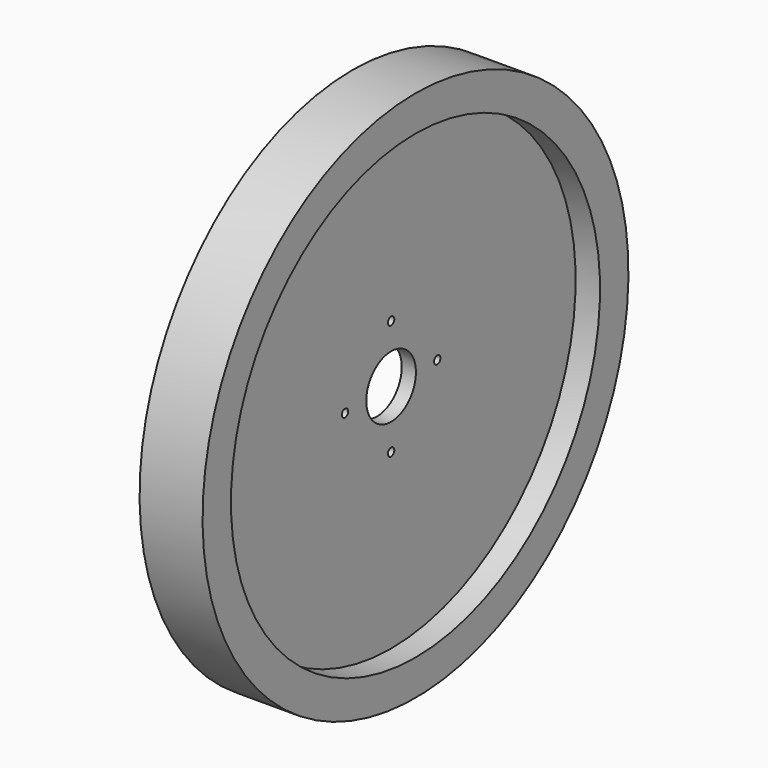
from build123d import *

# Parameters (mm, degrees)
F2_R     = 4.5
F3_DEPTH = 25


with BuildPart() as f1:
    # F0 (on Front) → F1 (revolve)
    with BuildSketch(Plane.XZ):
        Polygon((-8, 35), (0, 35), (8, 35), (8, 260), (35.5, 260), (35.5, 300), (0, 300), (-35.5, 300), (-35.5, 260), (-8, 260), align=None)
    revolve(axis=Axis((56.93949, 0, 0), (1, 0, 0)))

    # F2 (on face) → F3 (cut)
    with BuildSketch(Plane.YZ.offset(8)):
        with Locations((0, 65)):
            Circle(F2_R)
        with Locations((-65, 0)):
            Circle(F2_R)
        with Locations((0, -65)):
            Circle(F2_R)
        with Locations((65, 0)):
            Circle(F2_R)
    extrude(amount=-F3_DEPTH, mode=Mode.SUBTRACT)


solid = f1.part
